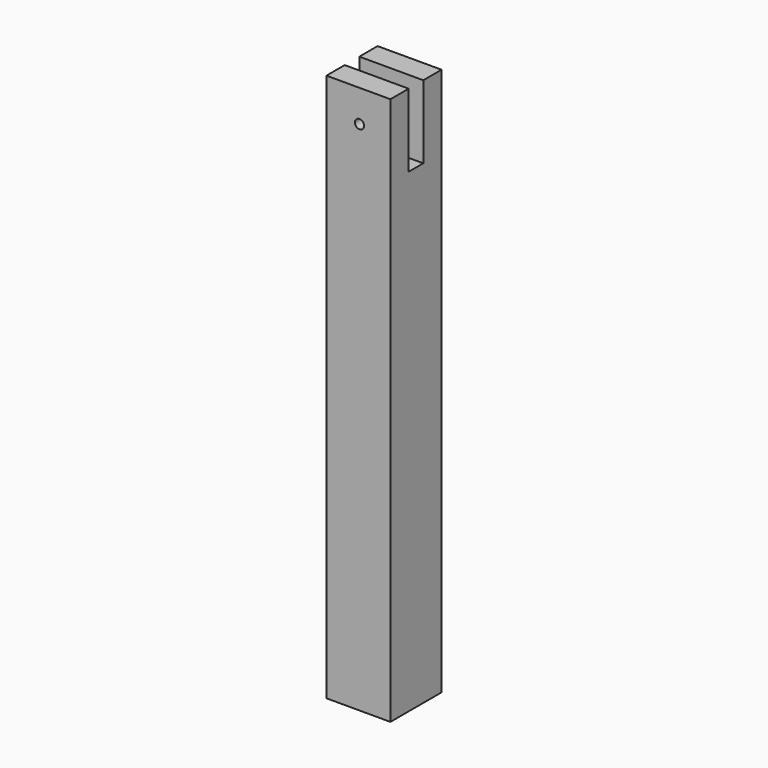
from build123d import *

# Parameters (mm, degrees)
F0_W     = 88.9
F0_H     = 762
F1_DEPTH = 44.45
F2_W     = 25.4
F2_H     = 101.6
F3_DEPTH = 127
F4_R     = 6.35
F5_DEPTH = 127


with BuildPart() as f1:
    # F0 (on Front) → F1 (new body, symmetric)
    with BuildSketch(Plane.XZ):
        with Locations((-1.4848271385, 327.3150383137)):
            Rectangle(F0_W, F0_H)
    extrude(amount=F1_DEPTH, both=True)

    # F2 (on Right) → F3 (cut, symmetric)
    with BuildSketch(Plane.YZ):
        with Locations((0, 657.5150383137)):
            Rectangle(F2_W, F2_H)
    extrude(amount=F3_DEPTH, both=True, mode=Mode.SUBTRACT)

    # F4 (on face) → F5 (cut, symmetric)
    with BuildSketch(Plane(origin=(0, 44.45, 0), x_dir=(-1, 0, 0), z_dir=(0, 1, 0))):
        with Locations((0, 663.8650383137)):
            Circle(F4_R)
    extrude(amount=F5_DEPTH, both=True, mode=Mode.SUBTRACT)


solid = f1.part
